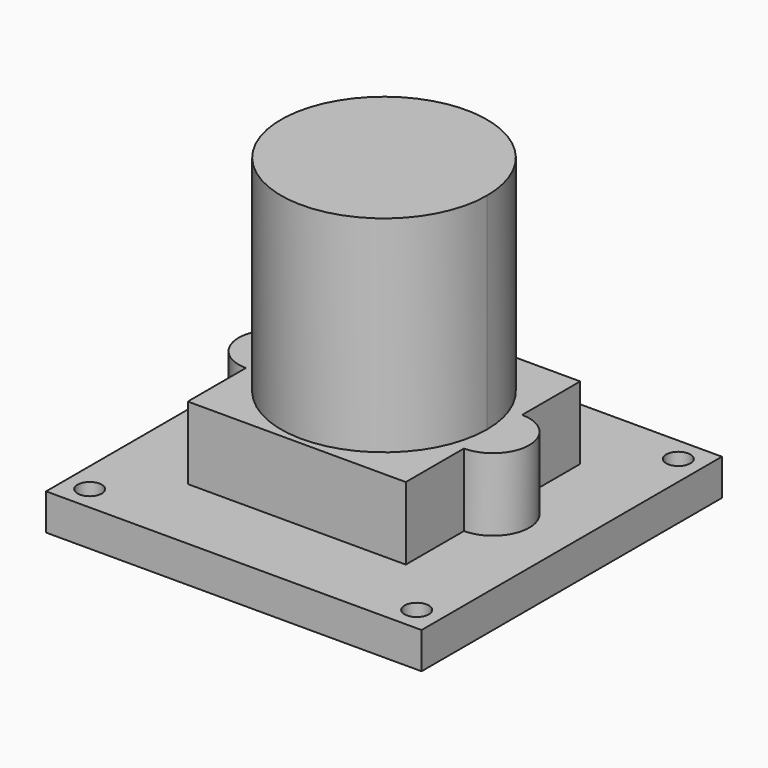
from build123d import *

# Parameters (mm, degrees)
F0_W     = 31
F0_H     = 31
F0_R     = 1
F1_DEPTH = 3
F2_DEPTH = 26
F3_DEPTH = 9
F4_DEPTH = 13
F5_R     = 0.639581
F6_DEPTH = 1.5


with BuildPart() as f1:
    # F0 (on Top) → F1 (new body)
    with BuildSketch(Plane.XY):
        with Locations((0, 2.357912)):
            Rectangle(F0_W, F0_H)
        with Locations((-13.5, -11.142088)):
            Circle(F0_R, mode=Mode.SUBTRACT)
        with Locations((13.5, -11.142088)):
            Circle(F0_R, mode=Mode.SUBTRACT)
        with Locations((-13.5, 15.857912)):
            Circle(F0_R, mode=Mode.SUBTRACT)
        with BuildLine():
            Line((2.5, 11.357912), (9, 11.357912))
            Line((9, 11.357912), (9, 5.357912))
            ThreePointArc((9, 5.357912), (12, 2.357912), (9, -0.642088))
            Line((9, -0.642088), (9, -6.642088))
            Line((9, -6.642088), (-9, -6.642088))
            Line((-9, -6.642088), (-9, -0.642088))
            ThreePointArc((-9, -0.642088), (-12, 2.357912), (-9, 5.357912))
            Line((-9, 5.357912), (-9, 11.357912))
            Line((-9, 11.357912), (-2.5, 11.357912))
            Line((-2.5, 11.357912), (-2.5, 12.327521))
            Line((-2.5, 12.327521), (2.5, 12.327521))
            Line((2.5, 12.327521), (2.5, 11.357912))
        make_face(mode=Mode.SUBTRACT)
        with Locations((13.5, 15.857912)):
            Circle(F0_R, mode=Mode.SUBTRACT)
    extrude(amount=F1_DEPTH)



with BuildPart() as f2:
    # F0 (on Top) → F2 (new body)
    with BuildSketch(Plane.XY):
        with BuildLine():
            ThreePointArc((8.5, 2.357912), (6.837397, 7.407664), (2.5, 10.48195))
            ThreePointArc((2.5, 10.48195), (0, 10.857912), (-2.5, 10.48195))
            ThreePointArc((-2.5, 10.48195), (-5.049752, -4.479485), (8.5, 2.357912))
        make_face()
    extrude(amount=F2_DEPTH)


with BuildPart() as f1_1:
    add(f1.part)

    add(f2.part)  # F3 merges F2
    # F0 (on Top) → F3 (join)
    with BuildSketch(Plane.XY):
        with BuildLine():
            Line((9, 5.357912), (9, 11.357912))
            Line((9, 11.357912), (2.5, 11.357912))
            Line((2.5, 11.357912), (2.5, 10.48195))
            ThreePointArc((2.5, 10.48195), (6.837397, 7.407664), (8.5, 2.357912))
            ThreePointArc((8.5, 2.357912), (-5.049752, -4.479485), (-2.5, 10.48195))
            Line((-2.5, 10.48195), (-2.5, 11.357912))
            Line((-2.5, 11.357912), (-9, 11.357912))
            Line((-9, 11.357912), (-9, 5.357912))
            ThreePointArc((-9, 5.357912), (-12, 2.357912), (-9, -0.642088))
            Line((-9, -0.642088), (-9, -6.642088))
            Line((-9, -6.642088), (9, -6.642088))
            Line((9, -6.642088), (9, -0.642088))
            ThreePointArc((9, -0.642088), (12, 2.357912), (9, 5.357912))
        make_face()
    extrude(amount=F3_DEPTH)

    # F0 (on Top) → F4 (join)
    with BuildSketch(Plane.XY):
        with BuildLine():
            Line((2.5, 10.48195), (2.5, 11.357912))
            Line((2.5, 11.357912), (2.5, 12.327521))
            Line((2.5, 12.327521), (-2.5, 12.327521))
            Line((-2.5, 12.327521), (-2.5, 11.357912))
            Line((-2.5, 11.357912), (-2.5, 10.48195))
            ThreePointArc((-2.5, 10.48195), (0, 10.857912), (2.5, 10.48195))
        make_face()
    extrude(amount=F4_DEPTH)

    # F5 (on face) → F6 (join)
    with BuildSketch(Plane(origin=(0, 12.327521, 0), x_dir=(-1, 0, 0), z_dir=(0, 1, 0))):
        with Locations((0, 11)):
            Circle(F5_R)
    extrude(amount=F6_DEPTH)


with BuildPart() as f7_1:
    # F7: copy of F1
    add(f1_1.part)


solid = f1_1.part
